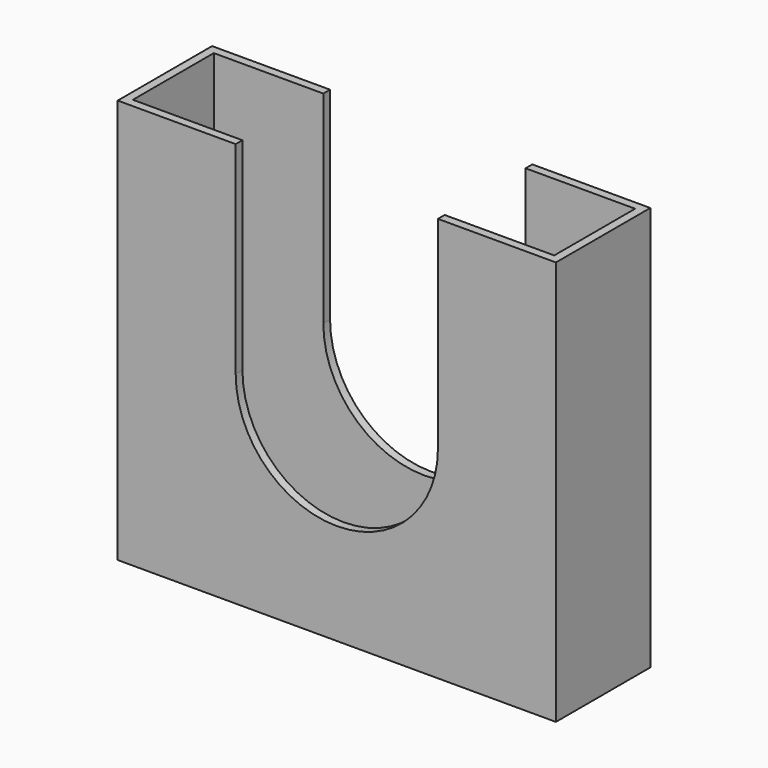
from build123d import *

# Parameters (mm, degrees)
F0_W     = 330.2
F0_H     = 304.8
F1_DEPTH = 88.9
F2_W     = 317.5
F2_H     = 76.2
F3_DEPTH = 298.45
F5_DEPTH = 127


with BuildPart() as f1:
    # F0 (on Front) → F1 (new body)
    with BuildSketch(Plane.XZ):
        with Locations((58.008134, 136.263882)):
            Rectangle(F0_W, F0_H)
    extrude(amount=F1_DEPTH)

    # F2 (on face) → F3 (cut)
    with BuildSketch(Plane.XY.offset(288.663882)):
        with Locations((58.008134, -44.45)):
            Rectangle(F2_W, F2_H)
    extrude(amount=-F3_DEPTH, mode=Mode.SUBTRACT)

    # F4 (on face) → F5 (cut)
    with BuildSketch(Plane.XZ.offset(88.9)):
        with BuildLine():
            Line((-18.191866, 288.663882), (-18.191866, 136.263882))
            ThreePointArc((-18.191866, 136.263882), (58.008134, 60.063882), (134.208134, 136.263882))
            Line((134.208134, 136.263882), (134.208134, 288.663882))
            Line((134.208134, 288.663882), (-18.191866, 288.663882))
        make_face()
    extrude(amount=-F5_DEPTH, mode=Mode.SUBTRACT)


solid = f1.part
